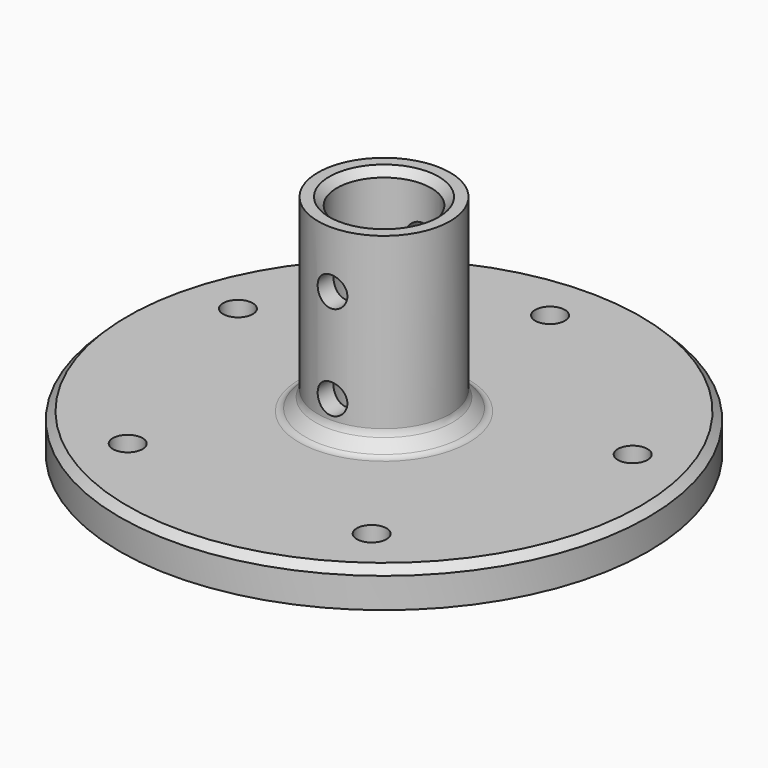
from build123d import *

# Parameters (mm, degrees)
F0_R          = 44.45
F0_R_2        = 2.5
F0_R_3        = 11.1125
F0_R_4        = 7.9375
F1_DEPTH      = 6.35
F2_DEPTH      = 38.1
F3_R          = 2.5
F4_DEPTH      = 44.451
F4_DEPTH_BACK = 44.451
F5_SIZE       = 1.27
F6_SIZE       = 2.54
F7_R          = 1.524


with BuildPart() as f1:
    # F0 (on Top) → F1 (new body)
    with BuildSketch(Plane.XY):
        Circle(F0_R)
        with Locations((-20.5283999363, -28.2549185285)):
            Circle(F0_R_2, mode=Mode.SUBTRACT)
        with Locations((20.5283999363, -28.2549185285)):
            Circle(F0_R_2, mode=Mode.SUBTRACT)
        with Locations((-33.2156488316, 10.7924185285)):
            Circle(F0_R_2, mode=Mode.SUBTRACT)
        Circle(F0_R_3, mode=Mode.SUBTRACT)
        with Locations((33.2156488316, 10.7924185285)):
            Circle(F0_R_2, mode=Mode.SUBTRACT)
        with Locations((0, 34.925)):
            Circle(F0_R_2, mode=Mode.SUBTRACT)
        Circle(F0_R_3)
        Circle(F0_R_4, mode=Mode.SUBTRACT)
    extrude(amount=F1_DEPTH)

    # F0 (on Top) → F2 (join)
    with BuildSketch(Plane.XY):
        Circle(F0_R_3)
        Circle(F0_R_4, mode=Mode.SUBTRACT)
    extrude(amount=F2_DEPTH)

    # F3 (on Front) → F4 (cut, two sides)
    with BuildSketch(Plane.XZ) as f4_sk:
        with Locations((0, 12.7)):
            Circle(F3_R)
        with Locations((0, 28.575)):
            Circle(F3_R)
    extrude(amount=-F4_DEPTH, mode=Mode.SUBTRACT)
    extrude(f4_sk.sketch, amount=F4_DEPTH_BACK, mode=Mode.SUBTRACT)

    # F5
    f5_edges = [f1.edges().sort_by_distance(p)[0] for p in [
        (-7.9375, 0, 38.1),
        (-7.9375, 0, 0),
        (-44.45, 0, 6.35),
    ]]
    chamfer(f5_edges, length=F5_SIZE)

    # F6
    f6_edges = [f1.edges().sort_by_distance(p)[0] for p in [
        (-11.1125, 0, 6.35),
    ]]
    chamfer(f6_edges, length=F6_SIZE)

    # F7
    f7_edges = [f1.edges().sort_by_distance(p)[0] for p in [
        (-11.1125, 0, 8.89),
        (-13.6525, 0, 6.35),
    ]]
    fillet(f7_edges, radius=F7_R)


solid = f1.part
